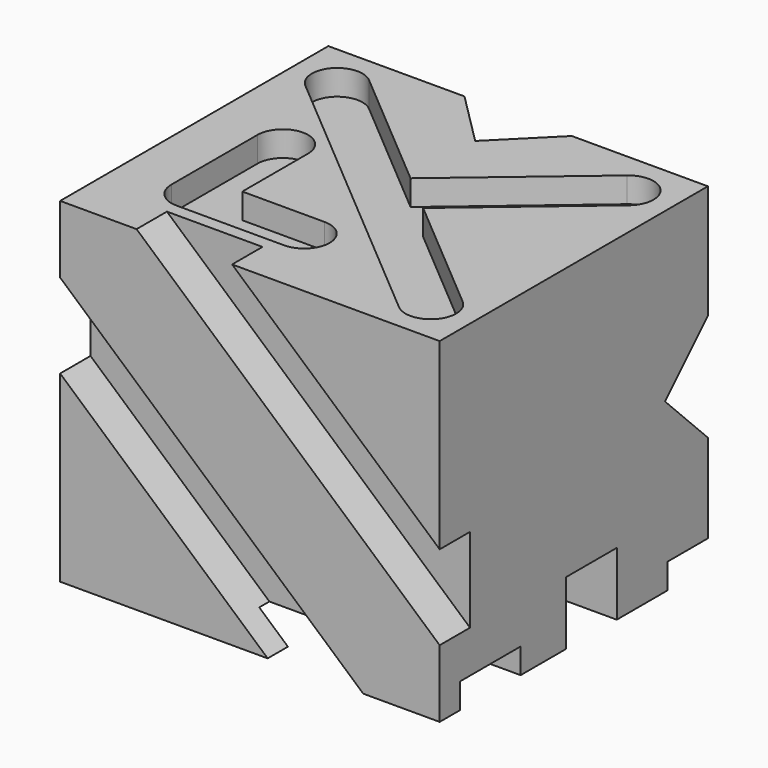
from build123d import *

# Parameters (mm, degrees)
F0_W      = 53
F0_H      = 53
F1_DEPTH  = 60
F3_DEPTH  = 4
F4_DEPTH  = 53
F6_DEPTH  = 6
F8_DEPTH  = 60
F10_DEPTH = 4
F9_W      = 60
F9_H      = 10
F11_DEPTH = 10
F12_DEPTH = 25


with BuildPart() as f1:
    # F0 (on Right) → F1 (new body)
    with BuildSketch(Plane.YZ):
        with Locations((26.5, 26.5)):
            Rectangle(F0_W, F0_H)
    extrude(amount=F1_DEPTH)

    # F2 (on face) → F3 (cut)
    with BuildSketch(Plane.XY.offset(53)):
        with BuildLine():
            ThreePointArc((9.5867410065, 49.0510278539), (3.9489721461, 48.5867410065), (4.4132589935, 42.9489721461))
            Line((4.4132589935, 42.9489721461), (27.4132590282, 23.4489721167))
            ThreePointArc((27.4132590282, 23.4489721167), (26, 26.4999999772), (27.4132589935, 29.5510278539))
            Line((27.4132589935, 29.5510278539), (30, 31.7441343594))
            Line((30, 31.7441343594), (9.5867410065, 49.0510278539))
        make_face()
        with BuildLine():
            ThreePointArc((32.5867410065, 23.4489721461), (30.0000000228, 22.5), (27.4132590282, 23.4489721167))
            Line((27.4132590282, 23.4489721167), (50.4132589935, 3.9489721461))
            ThreePointArc((50.4132589935, 3.9489721461), (56.0510278539, 4.4132589935), (55.5867410065, 10.0510278539))
            Line((55.5867410065, 10.0510278539), (36.1853892444, 26.5))
            Line((36.1853892444, 26.5), (32.5867410065, 23.4489721461))
        make_face()
        with BuildLine():
            ThreePointArc((27.4132589935, 29.5510278539), (26, 26.4999999772), (27.4132590282, 23.4489721167))
            ThreePointArc((27.4132590282, 23.4489721167), (30.0000000228, 22.5), (32.5867410065, 23.4489721461))
            Line((32.5867410065, 23.4489721461), (36.1853892444, 26.5))
            Line((36.1853892444, 26.5), (55.5867410065, 42.9489721461))
            ThreePointArc((55.5867410065, 42.9489721461), (56.0510278539, 48.5867410065), (50.4132589935, 49.0510278539))
            Line((50.4132589935, 49.0510278539), (30, 31.7441343594))
            Line((30, 31.7441343594), (27.4132589935, 29.5510278539))
        make_face()
        with BuildLine():
            ThreePointArc((16, 29), (12, 33), (8, 29))
            Line((8, 29), (8, 12))
            ThreePointArc((8, 12), (9.1715728753, 9.1715728753), (12, 8))
            Line((12, 8), (29, 8))
            ThreePointArc((29, 8), (33, 12), (29, 16))
            Line((29, 16), (16, 16))
            Line((16, 16), (16, 29))
        make_face()
    extrude(amount=-F3_DEPTH, mode=Mode.SUBTRACT)

    # F2 (on face) → F4 (cut, through all)
    with BuildSketch(Plane.XY.offset(53)):
        Polygon((38.48, 53), (21.52, 53), (30, 44.52), align=None)
    extrude(amount=-F4_DEPTH, mode=Mode.SUBTRACT)

    # F5 (on face) → F6 (cut)
    with BuildSketch(Plane.XZ):
        Polygon((27.1889083829, 53), (12.0839592813, 53), (60, 10.6741640318), (60, 24.0168690716), align=None)
        Polygon((47.9160407187, 0), (0, 42.3258359682), (0, 28.9831309284), (32.8110916171, 0), align=None)
    extrude(amount=-F6_DEPTH, mode=Mode.SUBTRACT)

    # F7 (on face) → F8 (cut, through all)
    with BuildSketch(Plane(origin=(0, 0, 0), x_dir=(0, -1, 0), z_dir=(-1, 0, 0))):
        Polygon((-44.52, 26.5), (-53, 34.98), (-53, 18.02), align=None)
    extrude(amount=-F8_DEPTH, mode=Mode.SUBTRACT)

    # F9 (on face) → F10 (cut)
    with BuildSketch(Plane(origin=(0, 0, 0), x_dir=(1, 0, 0), z_dir=(0, 0, -1))):
        Polygon((0, -16), (60, -16), (60, -4), (47.9160407187, -4), (47.9160407187, -6), (32.8110916171, -6), (32.8110916171, -4), (0, -4), align=None)
        Polygon((38.48, -53), (60, -53), (60, -45), (30.48, -45), align=None)
    extrude(amount=-F10_DEPTH, mode=Mode.SUBTRACT)

    # F9 (on face) → F11 (cut)
    with BuildSketch(Plane(origin=(0, 0, 0), x_dir=(1, 0, 0), z_dir=(0, 0, -1))):
        with Locations((30, -30)):
            Rectangle(F9_W, F9_H)
    extrude(amount=-F11_DEPTH, mode=Mode.SUBTRACT)

    # F12 (cut): a face of the model
    f12_faces = [f1.faces().sort_by_distance(p)[0] for p in [
        (47.9160407187, 5, 2),
    ]]
    extrude(f12_faces, amount=-F12_DEPTH, mode=Mode.SUBTRACT)


solid = f1.part
